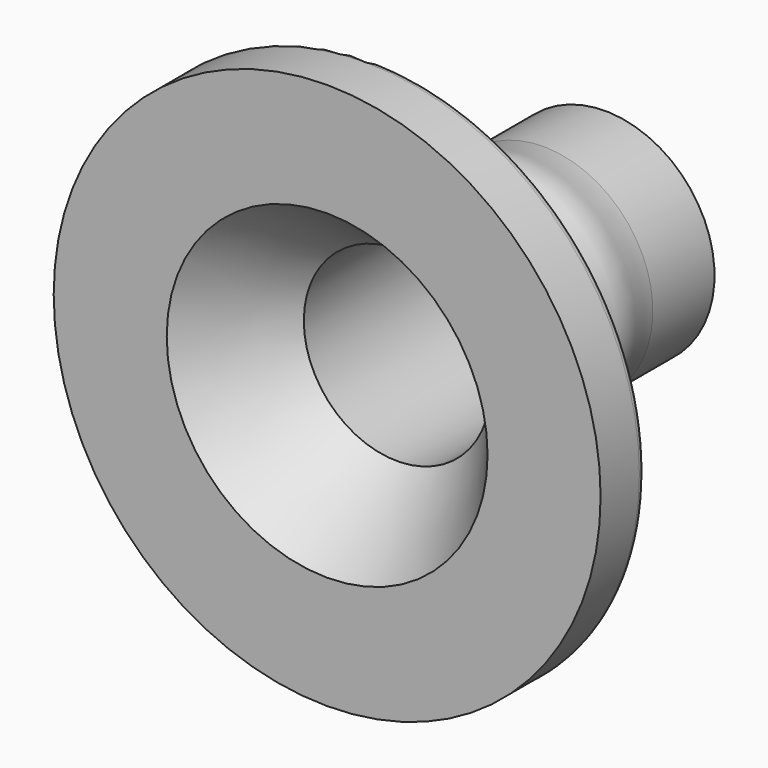
from build123d import *

# Parameters (mm, degrees)
F2_R = 1


with BuildPart() as f1:
    # F0 (on Top) → F1 (revolve)
    with BuildSketch(Plane.XY):
        with BuildLine():
            Line((-37.5, 0), (-22, 0))
            Line((-22, 0), (-12.8, 12))
            Line((-12.8, 12), (-12.8, 47.65))
            Line((-12.8, 47.65), (-15, 47.65))
            Line((-15, 47.65), (-15, 37.075003))
            add(Edge.make_bspline(
                [(-15, 13.075003), (-14.989024, 15.277), (-17.005096, 18.993094), (-13.998628, 25.058692), (-17.000392, 31.222159), (-15, 34.742516), (-15, 37.075003)],
                knots=[0, 0, 0, 0, 6.082763, 12.165525, 18.248288, 24.33105, 24.33105, 24.33105, 24.33105], degree=3))
            Line((-15, 13.075003), (-19.159169, 7.65))
            Line((-19.159169, 7.65), (-37.5, 7.65))
            Line((-37.5, 7.65), (-37.5, 0))
        make_face()
    revolve(axis=Axis((0, 6.605003, 0), (0, -1, 0)))

    # F2
    f2_edges = [f1.edges().sort_by_distance(p)[0] for p in [
        (37.5, 7.65, 0),
    ]]
    fillet(f2_edges, radius=F2_R)


solid = f1.part
